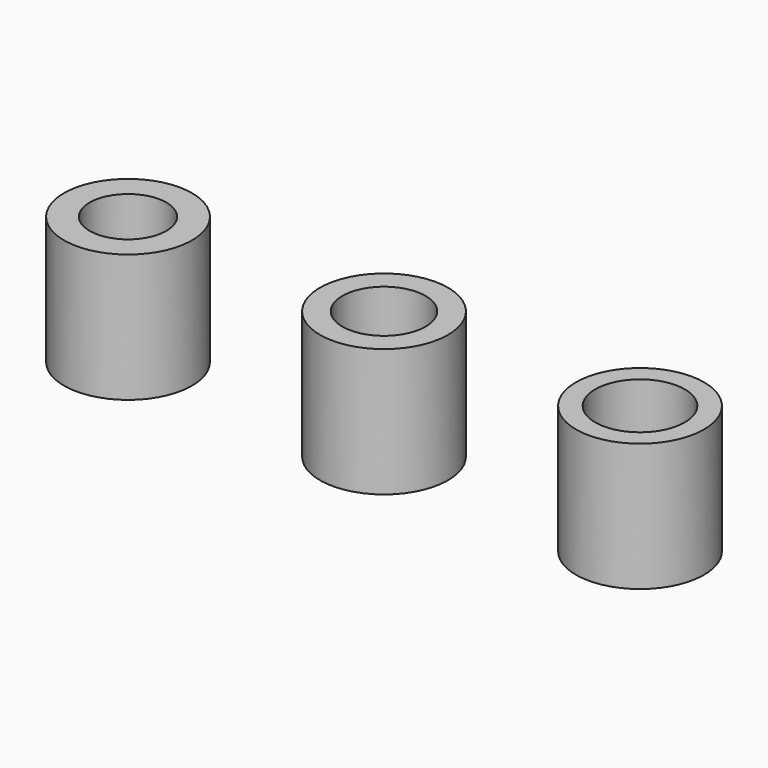
from build123d import *

# Parameters (mm, degrees)
FACE_R           = 5
FACE_R_2         = 3
EXTRUDE_DEPTH    = 10
FACE001_R        = 5
FACE001_R_2      = 3.5
EXTRUDE001_DEPTH = 10
FACE002_R        = 5
FACE002_R_2      = 3.25
EXTRUDE002_DEPTH = 10


with BuildPart() as extrude_body:
    # Face → Extrude (new body)
    with BuildSketch(Plane(origin=(0, 0, 0), x_dir=(0, 1, 0), z_dir=(0, 0, 1))):
        Circle(FACE_R)
        Circle(FACE_R_2, mode=Mode.SUBTRACT)
    extrude(amount=EXTRUDE_DEPTH)


with BuildPart() as extrude001:
    # Face001 → Extrude001 (new body)
    with BuildSketch(Plane(origin=(40, 0, 0), x_dir=(0, 1, 0), z_dir=(0, 0, 1))):
        Circle(FACE001_R)
        Circle(FACE001_R_2, mode=Mode.SUBTRACT)
    extrude(amount=EXTRUDE001_DEPTH)


with BuildPart() as extrude002:
    # Face002 → Extrude002 (new body)
    with BuildSketch(Plane(origin=(20, 0, 0), x_dir=(0, 1, 0), z_dir=(0, 0, 1))):
        Circle(FACE002_R)
        Circle(FACE002_R_2, mode=Mode.SUBTRACT)
    extrude(amount=EXTRUDE002_DEPTH)


solid = Compound([extrude_body.part, extrude001.part, extrude002.part])
